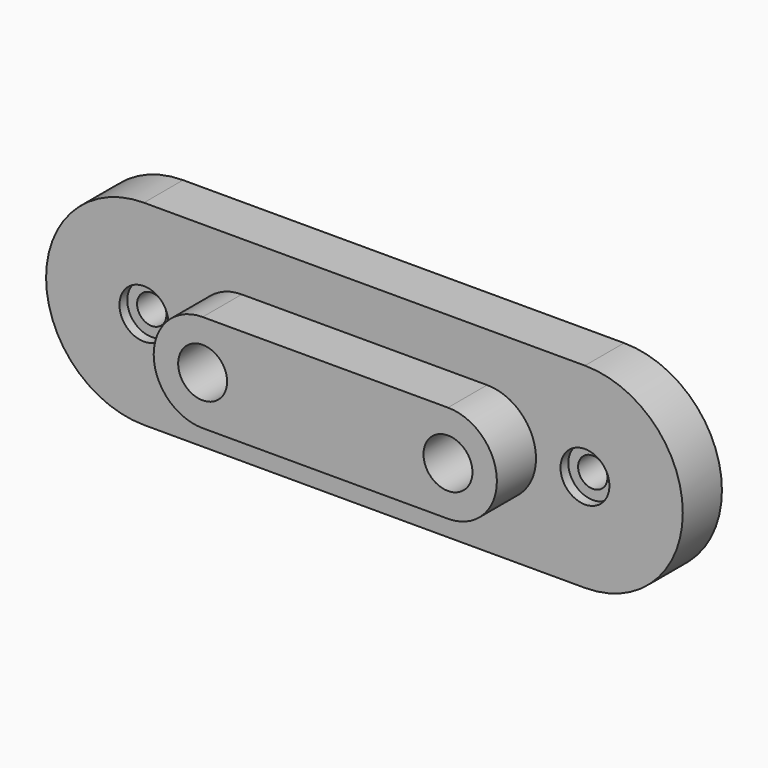
from build123d import *

# Parameters (mm, degrees)
F0_R     = 12.5
F1_DEPTH = 50
F2_DEPTH = 25
F0_R_2   = 7.5
F3_DEPTH = 20


with BuildPart() as f1:
    # F0 (on Front) → F1 (new body)
    with BuildSketch(Plane.XZ):
        with BuildLine():
            Line((175.374043, 25), (50, 25))
            ThreePointArc((50, 25), (25, 0), (50, -25))
            Line((50, -25), (175.374043, -25))
            ThreePointArc((175.374043, -25), (200.374043, 0), (175.374043, 25))
        make_face()
        with Locations((50, 0)):
            Circle(F0_R, mode=Mode.SUBTRACT)
        with Locations((175.374043, 0)):
            Circle(F0_R, mode=Mode.SUBTRACT)
    extrude(amount=F1_DEPTH)

    # F0 (on Front) → F2 (join)
    with BuildSketch(Plane.XZ):
        with BuildLine():
            Line((225.374043, 50), (0, 50))
            ThreePointArc((0, 50), (-50, 0), (0, -50))
            Line((0, -50), (225.374043, -50))
            ThreePointArc((225.374043, -50), (275.374043, 0), (225.374043, 50))
        make_face()
        Circle(F0_R, mode=Mode.SUBTRACT)
        with BuildLine():
            ThreePointArc((50, -25), (25, 0), (50, 25))
            Line((50, 25), (175.374043, 25))
            ThreePointArc((175.374043, 25), (200.374043, 0), (175.374043, -25))
            Line((175.374043, -25), (50, -25))
        make_face(mode=Mode.SUBTRACT)
        with Locations((225.374043, 0)):
            Circle(F0_R, mode=Mode.SUBTRACT)
    extrude(amount=F2_DEPTH)

    # F0 (on Front) → F3 (join)
    with BuildSketch(Plane.XZ):
        Circle(F0_R)
        Circle(F0_R_2, mode=Mode.SUBTRACT)
        with Locations((225.374043, 0)):
            Circle(F0_R)
        with Locations((225.374043, 0)):
            Circle(F0_R_2, mode=Mode.SUBTRACT)
    extrude(amount=F3_DEPTH)


solid = f1.part
